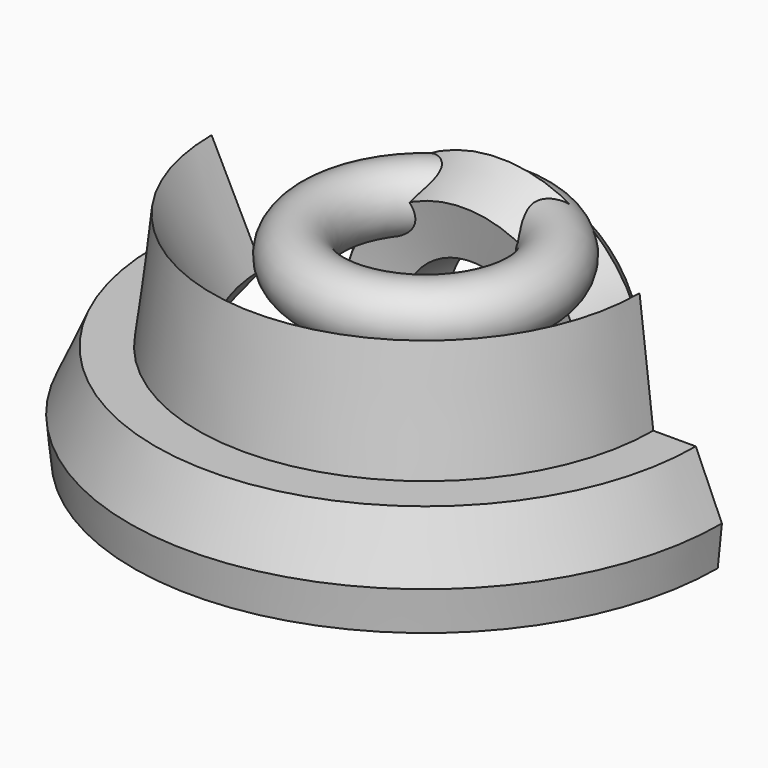
from build123d import *

# Parameters (mm, degrees)
F0_R     = 6.996185
F5_ANGLE = 180


with BuildPart() as f1:
    # F0 (on Right) → F1 (revolve)
    with BuildSketch(Plane.YZ):
        with Locations((22.559211, 21.656843)):
            Circle(F0_R)
    revolve(axis=Axis((0, 0, 18.949738), (0, 0, 1)))


with BuildPart() as f3:
    # F2 (on Right) → F3 (revolve)
    with BuildSketch(Plane.YZ):
        Polygon((20.512544, -31.907075), (28.816927, -24.03977), (23.90087, -13.710701), (12.558197, -15.194291), (10.464096, -26.440269), align=None)
    revolve(axis=Axis((0, 18.949738, 0), (0, 1, 0)))


with BuildPart() as f5:
    # F4 (on Right) → F5 (revolve, symmetric)
    with BuildSketch(Plane.YZ) as f5_sk:
        Polygon((-37.598684, -15.340263), (-48.427105, -8.422106), (-35.793949, 7.218947), (-46.923161, 29.477369), (-49.931053, 3.910263), (-59.255525, 3.910263), (-64.981484, -9.117092), (-64.068161, -18.047368), align=None)
    revolve(axis=Axis((0, 0, -6.688364), (0, 0, -1)), revolution_arc=F5_ANGLE / 2)
    revolve(f5_sk.sketch, axis=Axis((0, 0, -6.688364), (0, 0, 1)), revolution_arc=F5_ANGLE / 2)


solid = Compound([f1.part, f3.part, f5.part])
